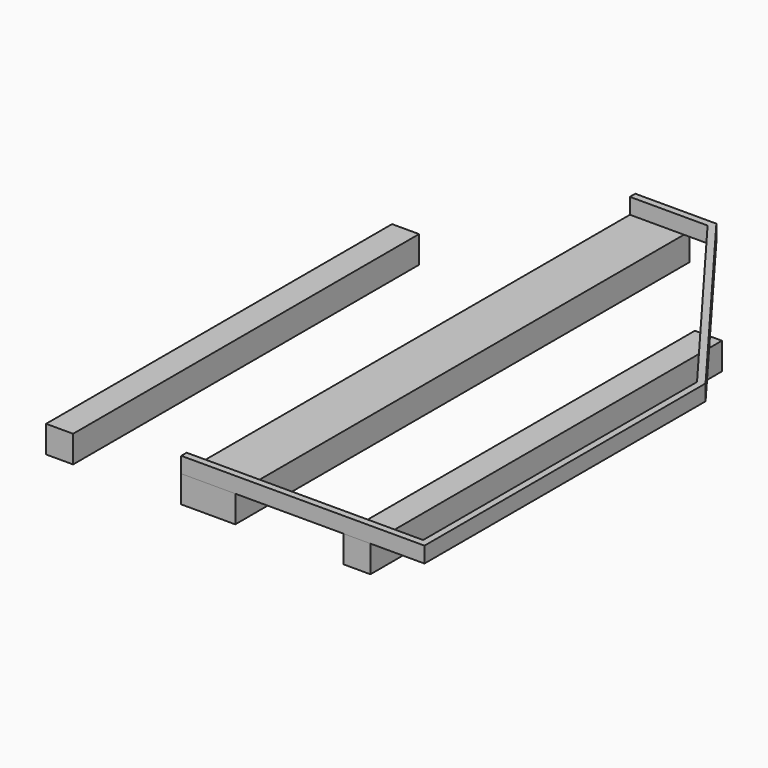
from build123d import *

# Parameters (mm, degrees)
F0_W     = 304.8
F0_H     = 3200.4
F1_DEPTH = 152.4
F0_W_2   = 152.4
F0_H_2   = 2438.4
F0_H_3   = 2477.460205555
F3_DEPTH = 88.9


with BuildPart() as f1:
    # F0 (on Top) → F1 (new body)
    with BuildSketch(Plane.XY):
        with Locations((-348.6470991135, -205.491242218)):
            Rectangle(F0_W, F0_H)
    extrude(amount=-F1_DEPTH)


with BuildPart() as f1b:
    # F0 (on Top) → F1, piece 2 (new body)
    with BuildSketch(Plane.XY):
        with Locations((-1186.8470991135, -586.491242218)):
            Rectangle(F0_W_2, F0_H_2)
    extrude(amount=-F1_DEPTH)


with BuildPart() as f1c:
    # F0 (on Top) → F1, piece 3 (new body)
    with BuildSketch(Plane.XY):
        with Locations((489.5529008865, -566.9611394405)):
            Rectangle(F0_W_2, F0_H_3)
    extrude(amount=-F1_DEPTH)


with BuildPart() as f3:
    # F2 (on face) → F3 (new body)
    with BuildSketch(Plane.XY):
        Polygon((-501.0470991135, -1805.691242218), (-348.6470991135, -1805.691242218), (-196.2470991135, -1805.691242218), (-196.2470991135, -1767.591242218), (-348.6470991135, -1767.591242218), (-501.0470991135, -1767.591242218), align=None)
        Polygon((-196.2470991135, -1767.591242218), (-196.2470991135, -1805.691242218), (870.5529008865, -1805.691242218), (870.5529008865, 175.508757782), (-43.8470991135, 1394.708757782), (-196.2470991135, 1394.708757782), (-196.2470991135, 1356.608757782), (-62.8970991135, 1356.608757782), (832.4529008865, 162.808757782), (832.4529008865, -1767.591242218), align=None)
        Polygon((-348.6470991135, 1356.608757782), (-196.2470991135, 1356.608757782), (-196.2470991135, 1394.708757782), (-348.6470991135, 1394.708757782), (-501.0470991135, 1394.708757782), (-501.0470991135, 1356.608757782), align=None)
    extrude(amount=F3_DEPTH)


solid = Compound([f1.part, f1b.part, f1c.part, f3.part])
